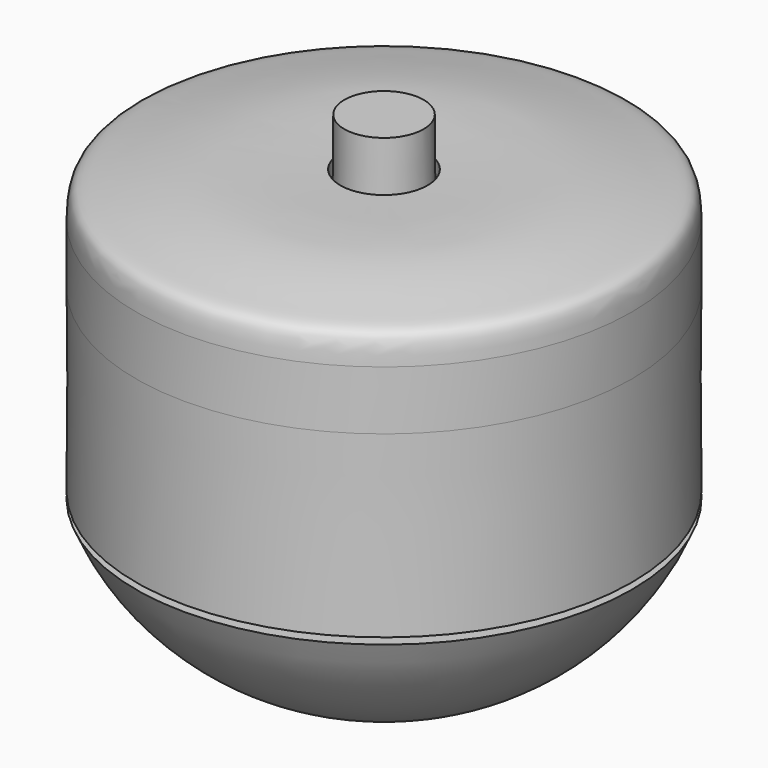
from build123d import *


with BuildPart() as f1:
    # F0 (on Front) → F1 (revolve)
    with BuildSketch(Plane.XZ):
        with BuildLine():
            add(Edge.make_bspline(
                [(0, 44.0202998325), (0.0577345664, 37.9548327602), (0.169249193, 29.8129052835), (0, 21.0925379175)],
                knots=[0.7694361764, 0.7694361764, 0.7694361764, 0.7694361764, 1, 1, 1, 1], degree=3))
            Line((0, 21.0925379175), (25.89529939, 20.9023386472))
            Line((25.89529939, 20.9023386472), (26.1628170877, 57.3244072695))
            add(Edge.make_bspline(
                [(26.1628170877, 57.3244072695), (21.9171396725, 57.3406664972), (13.3920272555, 57.9762362263), (3.5650271507, 55.7584975317), (0.2395476916, 55.3222469331), (0.0449284938, 53.3651527802), (0, 51.5634943099)],
                knots=[0, 0, 0, 0, 0.2304513354, 0.4301128282, 0.5318485078, 0.6500661639, 0.6500661639, 0.6500661639, 0.6500661639], degree=3))
            Line((0, 51.5634943099), (0, 44.0202998325))
        make_face()
    revolve(axis=Axis((31.75, 0, 25.0952), (0, 0, -1)))


with BuildPart() as f2:
    # F0 (on Front) → F2 (revolve)
    with BuildSketch(Plane.XZ):
        with BuildLine():
            ThreePointArc((4.4735642857, 20.6842509248), (13.1597568745, 9.9424734447), (25.89529939, 4.5906810385))
            Line((25.89529939, 4.5906810385), (25.89529939, 20.3214319938))
            Line((25.89529939, 20.3214319938), (4.4735642857, 20.6842509248))
        make_face()
    revolve(axis=Axis((31.75, 0, 25.0952), (0, 0, -1)))


with BuildPart() as f3:
    # F0 (on Front) → F3 (revolve)
    with BuildSketch(Plane.XZ):
        with BuildLine():
            Line((4.1610444968, 20.2734023333), (0, 20.2734023333))
            ThreePointArc((0, 20.2734023333), (11.991181608, 5.5393382602), (30.1625, 0))
            Line((30.1625, 0), (30.1625, 20.2734023333))
            Line((30.1625, 20.2734023333), (31.75, 20.2967011666))
            Line((31.75, 20.2967011666), (31.75, 63.5))
            Line((31.75, 63.5), (26.67, 63.5))
            Line((26.67, 63.5), (26.3525, 20.2729279764))
            Line((26.3525, 20.2729279764), (26.3525, 4.0634442103))
            ThreePointArc((26.3525, 4.0634442103), (13.1957264295, 9.3468486426), (4.1610444968, 20.2734023333))
        make_face()
    revolve(axis=Axis((31.75, 0, 25.0952), (0, 0, -1)))


solid = Compound([f1.part, f2.part, f3.part])
